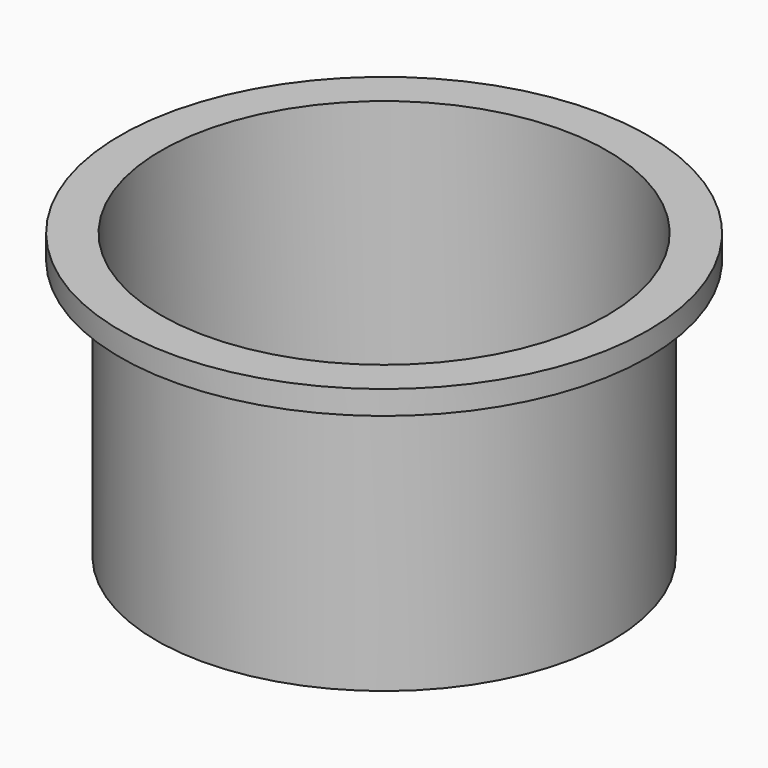
from build123d import *

# Parameters (mm, degrees)
F0_R     = 9.6
F1_DEPTH = 11
F2_R     = 11.125
F3_DEPTH = 1
F4_R     = 9.4
F5_DEPTH = 12.001


with BuildPart() as f1:
    # F0 (on Top) → F1 (new body)
    with BuildSketch(Plane.XY):
        Circle(F0_R)
    extrude(amount=F1_DEPTH)

    # F2 (on face) → F3 (join)
    with BuildSketch(Plane.XY.offset(11)):
        Circle(F2_R)
    extrude(amount=F3_DEPTH)

    # F4 (on face) → F5 (cut, through all)
    with BuildSketch(Plane(origin=(0, 0, 0), x_dir=(1, 0, 0), z_dir=(0, 0, -1))):
        Circle(F4_R)
    extrude(amount=-F5_DEPTH, mode=Mode.SUBTRACT)


solid = f1.part
